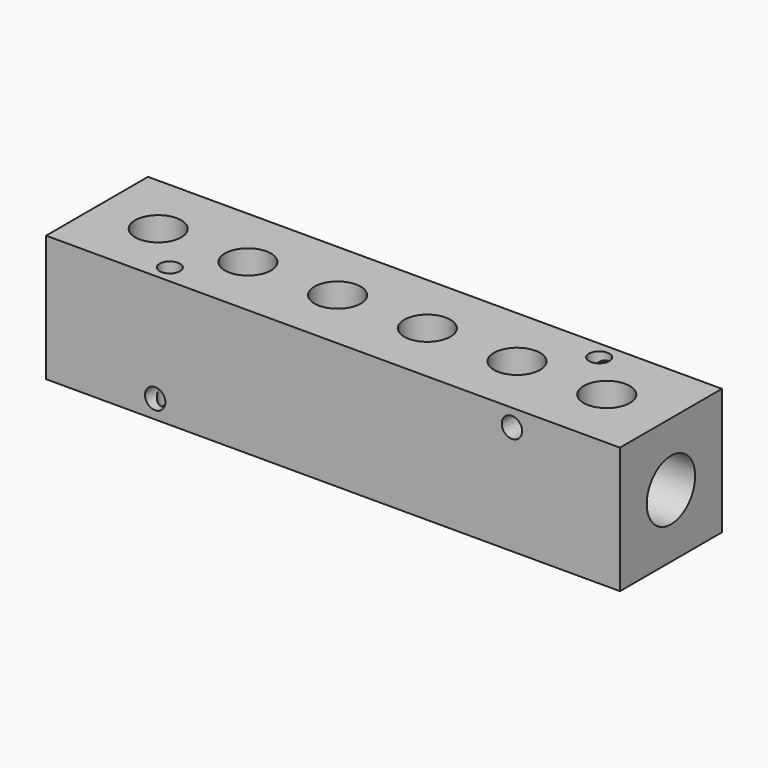
from build123d import *

# Parameters (mm, degrees)
F0_W     = 143.002
F0_H     = 31.496
F1_DEPTH = 31.75
F2_R     = 5.754688
F3_DEPTH = 15.875
F4_R     = 7.540625
F5_DEPTH = 143.003
F6_R     = 2.54
F7_DEPTH = 31.751
F8_R     = 2.54
F9_DEPTH = 31.497


with BuildPart() as f1:
    # F0 (on Front) → F1 (new body)
    with BuildSketch(Plane.XZ):
        Rectangle(F0_W, F0_H)
    extrude(amount=-F1_DEPTH)

    # F2 (on Top) → F3 (cut)
    with BuildSketch(Plane.XY):
        with Locations((-56.261, 15.875)):
            Circle(F2_R)
        with Locations((-33.909, 15.875)):
            Circle(F2_R)
        with Locations((-11.557, 15.875)):
            Circle(F2_R)
        with Locations((10.795, 15.875)):
            Circle(F2_R)
        with Locations((33.147, 15.875)):
            Circle(F2_R)
        with Locations((55.499, 15.875)):
            Circle(F2_R)
    extrude(amount=F3_DEPTH, mode=Mode.SUBTRACT)

    # F4 (on face) → F5 (cut, through all)
    with BuildSketch(Plane.YZ.offset(71.501)):
        with Locations((15.875, 0)):
            Circle(F4_R)
    extrude(amount=-F5_DEPTH, mode=Mode.SUBTRACT)

    # F6 (on face) → F7 (cut, through all)
    with BuildSketch(Plane.XZ):
        with Locations((-44.323, -11.176)):
            Circle(F6_R)
        with Locations((44.577, 11.43)):
            Circle(F6_R)
    extrude(amount=-F7_DEPTH, mode=Mode.SUBTRACT)

    # F8 (on face) → F9 (cut, through all)
    with BuildSketch(Plane.XY.offset(15.748)):
        with Locations((44.577, 27.178)):
            Circle(F8_R)
        with Locations((-44.323, 4.572)):
            Circle(F8_R)
    extrude(amount=-F9_DEPTH, mode=Mode.SUBTRACT)


solid = f1.part
